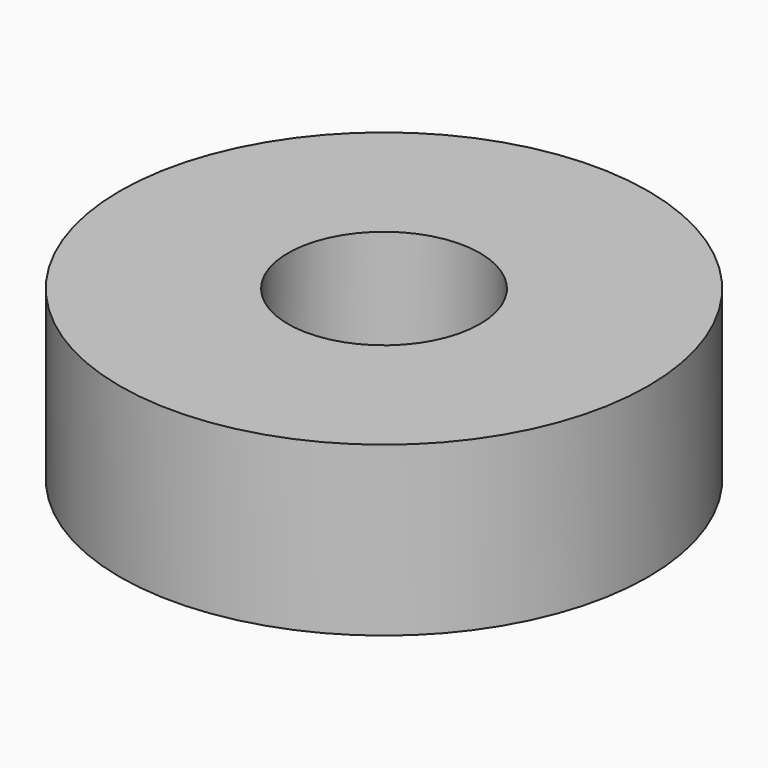
from build123d import *

# Parameters (mm, degrees)
CYLINDER005_R     = 4
CYLINDER005_DEPTH = 7
CYLINDER004_R     = 11
CYLINDER004_DEPTH = 7


with BuildPart() as cylinder005:
    # Cylinder005 → Cylinder005 (new body)
    with BuildSketch(Plane.XY):
        Circle(CYLINDER005_R)
    extrude(amount=CYLINDER005_DEPTH)


with BuildPart() as cut002:
    # Cylinder004 → Cylinder004 (new body)
    with BuildSketch(Plane.XY):
        Circle(CYLINDER004_R)
    extrude(amount=CYLINDER004_DEPTH)

    # Cut002: cut Cylinder005
    add(cylinder005.part, mode=Mode.SUBTRACT)


with BuildPart() as cut002_1:
    # Cut002 placement: moved
    add(cut002.part.moved(Location((-7, 32, -2))))


solid = cut002_1.part
